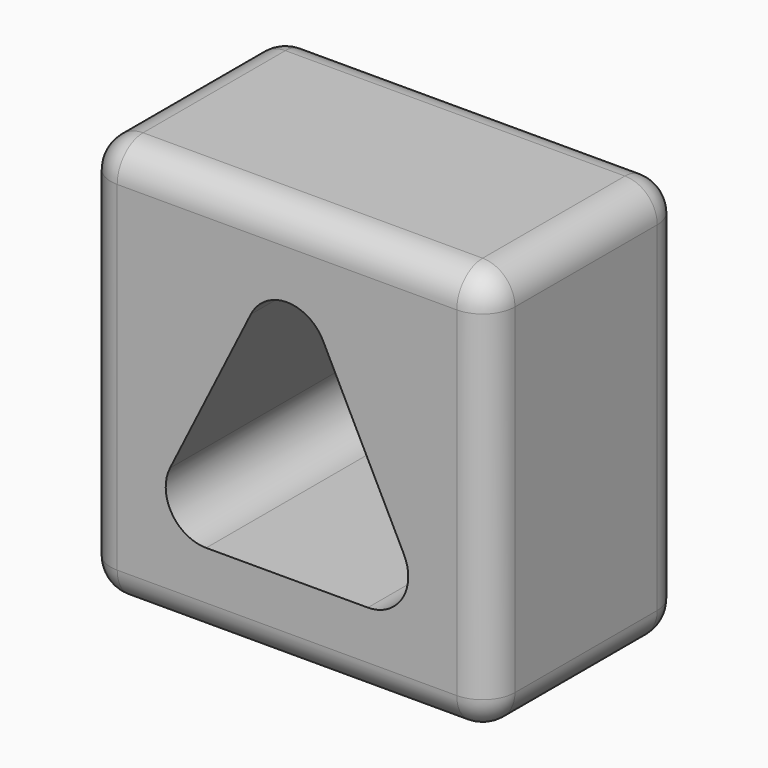
from build123d import *

# Parameters (mm, degrees)
F0_W     = 63.5
F0_H     = 63.5
F1_DEPTH = 38.1
F2_R     = 5.08


with BuildPart() as f1:
    # F0 (on Front) → F1 (new body)
    with BuildSketch(Plane.XZ):
        with Locations((31.75, 31.75)):
            Rectangle(F0_W, F0_H)
        with BuildLine():
            ThreePointArc((19.05, 12.7), (13.648367, 15.711607), (13.370387, 21.889806))
            Line((13.370387, 21.889806), (26.070387, 47.289806))
            ThreePointArc((26.070387, 47.289806), (31.75, 50.8), (37.429613, 47.289806))
            Line((37.429613, 47.289806), (50.129613, 21.889806))
            ThreePointArc((50.129613, 21.889806), (49.851633, 15.711607), (44.45, 12.7))
            Line((44.45, 12.7), (19.05, 12.7))
        make_face(mode=Mode.SUBTRACT)
    extrude(amount=F1_DEPTH)

    # F2
    f2_edges = [f1.edges().sort_by_distance(p)[0] for p in [
        (31.75, -38.1, 63.5),
        (63.5, -19.05, 63.5),
        (31.75, 0, 63.5),
        (0, -19.05, 63.5),
        (0, 0, 31.75),
        (0, -38.1, 31.75),
        (0, -19.05, 0),
        (31.75, 0, 0),
        (31.75, -38.1, 0),
        (63.5, -19.05, 0),
        (63.5, 0, 31.75),
        (63.5, -38.1, 31.75),
    ]]
    fillet(f2_edges, radius=F2_R)


solid = f1.part
